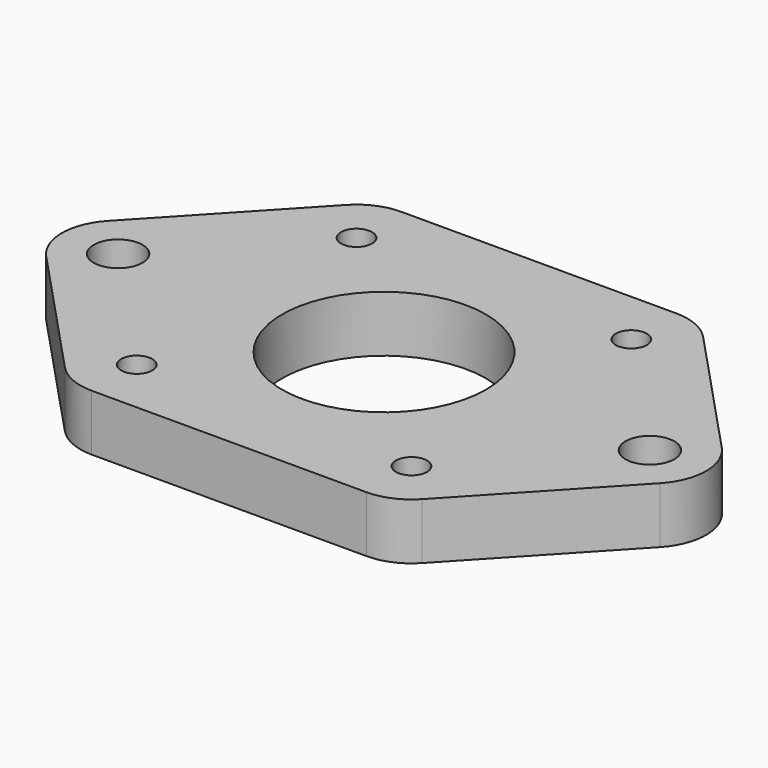
from build123d import *

# Parameters (mm, degrees)
SKETCH093_R     = 1.75
SKETCH093_R_2   = 2.75
SKETCH093_R_3   = 11.5
PAD032_DEPTH    = 6.35
SKETCH094_R     = 3
POCKET027_DEPTH = 3


with BuildPart() as part:
    # Sketch093 → Pad032 (new body)
    with BuildSketch(Plane.XY):
        with BuildLine():
            Line((-34.637223, 4.338048), (-20.137223, 19.838048))
            ThreePointArc((-15.5, 21.85), (-18.027439, 21.325337), (-20.137223, 19.838048))
            Line((-15.5, 21.85), (15.5, 21.85))
            ThreePointArc((20.137223, 19.838048), (18.027439, 21.325337), (15.5, 21.85))
            Line((20.137223, 19.838048), (34.637223, 4.338048))
            ThreePointArc((34.637223, -4.338048), (36.35, 0), (34.637223, 4.338048))
            Line((34.637223, -4.338048), (20.137223, -19.838048))
            ThreePointArc((15.5, -21.85), (18.027439, -21.325337), (20.137223, -19.838048))
            Line((15.5, -21.85), (-15.5, -21.85))
            ThreePointArc((-20.137223, -19.838048), (-18.027439, -21.325337), (-15.5, -21.85))
            Line((-20.137223, -19.838048), (-34.637223, -4.338048))
            ThreePointArc((-34.637223, 4.338048), (-36.35, 0), (-34.637223, -4.338048))
        make_face()
        with Locations((-15.5, 15.5)):
            Circle(SKETCH093_R, mode=Mode.SUBTRACT)
        with Locations((15.5, 15.5)):
            Circle(SKETCH093_R, mode=Mode.SUBTRACT)
        with Locations((15.5, -15.5)):
            Circle(SKETCH093_R, mode=Mode.SUBTRACT)
        with Locations((-15.5, -15.5)):
            Circle(SKETCH093_R, mode=Mode.SUBTRACT)
        with Locations((-30, 0)):
            Circle(SKETCH093_R_2, mode=Mode.SUBTRACT)
        with Locations((30, 0)):
            Circle(SKETCH093_R_2, mode=Mode.SUBTRACT)
        Circle(SKETCH093_R_3, mode=Mode.SUBTRACT)
    extrude(amount=PAD032_DEPTH)

    # Sketch094 → Pocket027 (cut)
    with BuildSketch(Plane.XY):
        with Locations((-15.5, 15.5)):
            Circle(SKETCH094_R)
        with Locations((15.5, 15.5)):
            Circle(SKETCH094_R)
        with Locations((15.5, -15.5)):
            Circle(SKETCH094_R)
        with Locations((-15.5, -15.5)):
            Circle(SKETCH094_R)
    extrude(amount=POCKET027_DEPTH, mode=Mode.SUBTRACT)


solid = part.part
